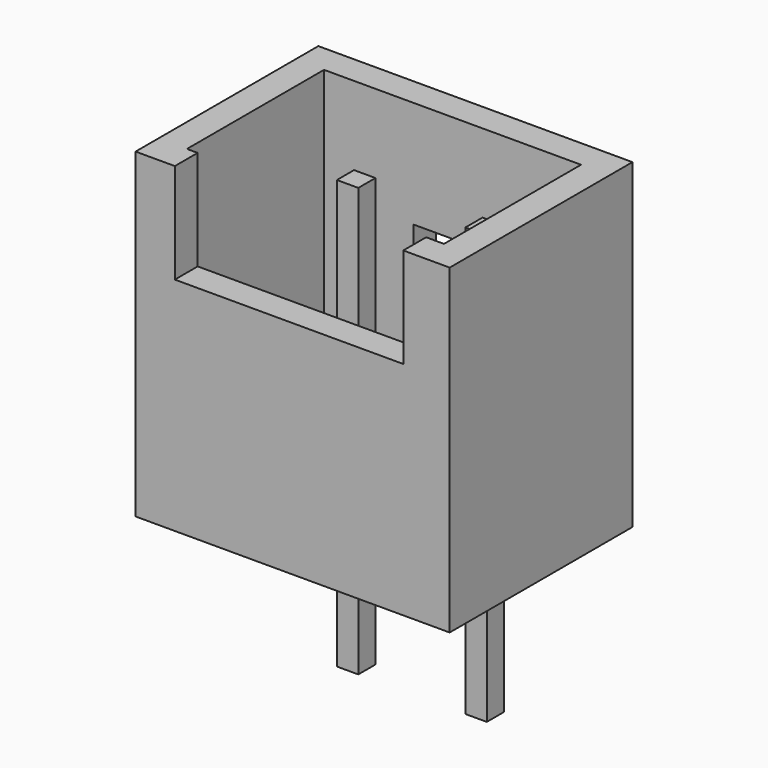
from build123d import *

# Parameters (mm, degrees)
F0_W          = 4.4
F0_H          = 3.2
F1_DEPTH      = 4.5
F2_W          = 3.6
F2_H          = 2.4
F3_DEPTH      = 4.3
F4_W          = 3.2
F4_H          = 0.4
F5_DEPTH      = 1.4
F6_W          = 1
F6_H          = 0.4
F7_DEPTH      = 3
F8_W          = 0.3
F8_H          = 0.3
F9_DEPTH      = 2.2
F9_DEPTH_BACK = 3.8


with BuildPart() as f1:
    # F0 (on Top) → F1 (new body)
    with BuildSketch(Plane.XY):
        with Locations((2.2, 1.6)):
            Rectangle(F0_W, F0_H)
    extrude(amount=F1_DEPTH)

    # F2 (on face) → F3 (cut)
    with BuildSketch(Plane.XY.offset(4.5)):
        with Locations((2.2, 1.6)):
            Rectangle(F2_W, F2_H)
    extrude(amount=-F3_DEPTH, mode=Mode.SUBTRACT)

    # F4 (on face) → F5 (cut)
    with BuildSketch(Plane.XY.offset(4.5)):
        with Locations((2.15, 0.2)):
            Rectangle(F4_W, F4_H)
    extrude(amount=-F5_DEPTH, mode=Mode.SUBTRACT)

    # F6 (on face) → F7 (cut)
    with BuildSketch(Plane(origin=(0, 0, 0), x_dir=(1, 0, 0), z_dir=(0, 0, -1))):
        with Locations((2.15, -3)):
            Rectangle(F6_W, F6_H)
    extrude(amount=-F7_DEPTH, mode=Mode.SUBTRACT)


with BuildPart() as f9:
    # F8 (on face) → F9 (new body, two sides)
    with BuildSketch(Plane(origin=(0, 0, 0), x_dir=(1, 0, 0), z_dir=(0, 0, -1))) as f9_sk:
        with Locations((1.45, -2.05)):
            Rectangle(F8_W, F8_H)
        with Locations((3.25, -2.05)):
            Rectangle(F8_W, F8_H)
    extrude(amount=F9_DEPTH)
    extrude(f9_sk.sketch, amount=-F9_DEPTH_BACK)


solid = Compound([f1.part, f9.part])
